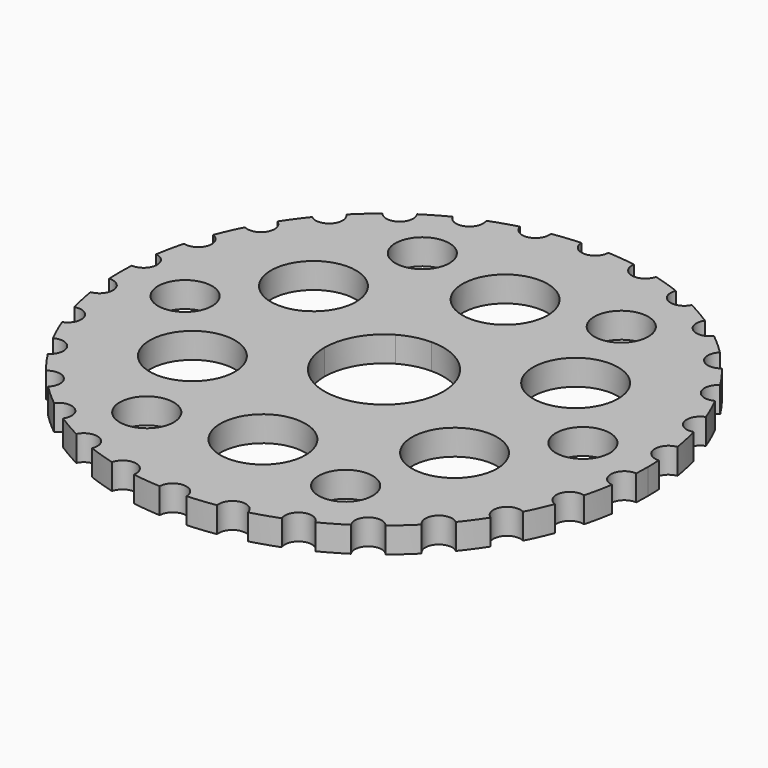
from build123d import *

# Parameters (mm, degrees)
F0_R     = 3.175
F0_R_2   = 5
F1_DEPTH = 3


with BuildPart() as f1:
    # F0 (on Top) → F1 (new body)
    with BuildSketch(Plane.XY):
        with BuildLine():
            ThreePointArc((30.955638, -1.657848), (30.988908, -0.829221), (31, 0))
            ThreePointArc((31, 0), (30.988908, 0.829221), (30.955638, 1.657848))
            ThreePointArc((30.955638, 1.657848), (29.251375, 3.074443), (30.623869, 4.814419))
            ThreePointArc((30.623869, 4.814419), (30.322576, 6.445262), (29.934497, 8.057659))
            ThreePointArc((29.934497, 8.057659), (27.97295, 9.088962), (28.95369, 11.076273))
            ThreePointArc((28.95369, 11.076273), (28.319909, 12.608836), (27.605075, 14.105312))
            ThreePointArc((27.605075, 14.105312), (25.471972, 14.70625), (26.018096, 16.854041))
            ThreePointArc((26.018096, 16.854041), (25.079527, 18.221343), (24.069179, 19.536495))
            ThreePointArc((24.069179, 19.536495), (21.857747, 19.680804), (21.945386, 21.895206))
            ThreePointArc((21.945386, 21.895206), (20.743049, 23.03749), (19.481344, 24.113839))
            ThreePointArc((19.481344, 24.113839), (17.288234, 23.795212), (16.913557, 25.979445))
            ThreePointArc((16.913557, 25.979445), (15.5, 26.846788), (14.042081, 27.637293))
            ThreePointArc((14.042081, 27.637293), (11.963142, 26.869656), (11.142525, 28.928258))
            ThreePointArc((11.142525, 28.928258), (9.579527, 29.482752), (7.989112, 29.952865))
            ThreePointArc((7.989112, 29.952865), (6.115203, 28.769766), (4.884511, 30.612768))
            ThreePointArc((4.884511, 30.612768), (3.240382, 30.830179), (1.58698, 30.959352))
            ThreePointArc((1.58698, 30.959352), (0, 29.4125), (-1.58698, 30.959352))
            ThreePointArc((-1.58698, 30.959352), (-3.240382, 30.830179), (-4.884511, 30.612768))
            ThreePointArc((-4.884511, 30.612768), (-4.864464, 30.468287), (-4.857762, 30.322576))
            ThreePointArc((-4.857762, 30.322576), (-6.259123, 28.746026), (-7.989112, 29.952865))
            ThreePointArc((-7.989112, 29.952865), (-9.579527, 29.482752), (-11.142525, 28.928258))
            ThreePointArc((-11.142525, 28.928258), (-11.051928, 28.630061), (-11.021336, 28.319909))
            ThreePointArc((-11.021336, 28.319909), (-12.258922, 26.771453), (-14.042081, 27.637293))
            ThreePointArc((-14.042081, 27.637293), (-15.5, 26.846788), (-16.913557, 25.979445))
            ThreePointArc((-16.913557, 25.979445), (-16.705383, 25.55072), (-16.633843, 25.079527))
            ThreePointArc((-16.633843, 25.079527), (-17.711488, 23.576129), (-19.481344, 24.113839))
            ThreePointArc((-19.481344, 24.113839), (-20.743049, 23.03749), (-21.945386, 21.895206))
            ThreePointArc((-21.945386, 21.895206), (-21.579088, 21.370122), (-21.44999, 20.743049))
            ThreePointArc((-21.44999, 20.743049), (-22.37328, 19.301181), (-24.069179, 19.536495))
            ThreePointArc((-24.069179, 19.536495), (-25.079527, 18.221343), (-26.018096, 16.854041))
            ThreePointArc((-26.018096, 16.854041), (-25.461922, 16.276083), (-25.259288, 15.5))
            ThreePointArc((-25.259288, 15.5), (-26.0355, 14.13546), (-27.605075, 14.105312))
            ThreePointArc((-27.605075, 14.105312), (-28.319909, 12.608836), (-28.95369, 11.076273))
            ThreePointArc((-28.95369, 11.076273), (-28.186596, 10.496116), (-27.895252, 9.579527))
            ThreePointArc((-27.895252, 9.579527), (-28.533276, 8.307265), (-29.934497, 8.057659))
            ThreePointArc((-29.934497, 8.057659), (-30.322576, 6.445262), (-30.623869, 4.814419))
            ThreePointArc((-30.623869, 4.814419), (-29.636933, 4.287435), (-29.242679, 3.240382))
            ThreePointArc((-29.242679, 3.240382), (-29.752916, 2.074337), (-30.955638, 1.657848))
            ThreePointArc((-30.955638, 1.657848), (-30.988908, 0.829221), (-31, 0))
            ThreePointArc((-31, 0), (-30.988908, -0.829221), (-30.955638, -1.657848))
            ThreePointArc((-30.955638, -1.657848), (-29.752916, -2.074337), (-29.242679, -3.240382))
            ThreePointArc((-29.242679, -3.240382), (-29.636933, -4.287435), (-30.623869, -4.814419))
            ThreePointArc((-30.623869, -4.814419), (-30.322576, -6.445262), (-29.934497, -8.057659))
            ThreePointArc((-29.934497, -8.057659), (-28.533276, -8.307265), (-27.895252, -9.579527))
            ThreePointArc((-27.895252, -9.579527), (-28.186596, -10.496116), (-28.95369, -11.076273))
            ThreePointArc((-28.95369, -11.076273), (-28.319909, -12.608836), (-27.605075, -14.105312))
            ThreePointArc((-27.605075, -14.105312), (-26.0355, -14.13546), (-25.259288, -15.5))
            ThreePointArc((-25.259288, -15.5), (-25.461922, -16.276083), (-26.018096, -16.854041))
            ThreePointArc((-26.018096, -16.854041), (-25.079527, -18.221343), (-24.069179, -19.536495))
            ThreePointArc((-24.069179, -19.536495), (-22.37328, -19.301181), (-21.44999, -20.743049))
            ThreePointArc((-21.44999, -20.743049), (-21.579088, -21.370122), (-21.945386, -21.895206))
            ThreePointArc((-21.945386, -21.895206), (-20.743049, -23.03749), (-19.481344, -24.113839))
            ThreePointArc((-19.481344, -24.113839), (-17.711488, -23.576129), (-16.633843, -25.079527))
            ThreePointArc((-16.633843, -25.079527), (-16.705383, -25.55072), (-16.913557, -25.979445))
            ThreePointArc((-16.913557, -25.979445), (-15.5, -26.846788), (-14.042081, -27.637293))
            ThreePointArc((-14.042081, -27.637293), (-12.258922, -26.771453), (-11.021336, -28.319909))
            ThreePointArc((-11.021336, -28.319909), (-11.051928, -28.630061), (-11.142525, -28.928258))
            ThreePointArc((-11.142525, -28.928258), (-9.579527, -29.482752), (-7.989112, -29.952865))
            ThreePointArc((-7.989112, -29.952865), (-6.259123, -28.746026), (-4.857762, -30.322576))
            ThreePointArc((-4.857762, -30.322576), (-4.864464, -30.468287), (-4.884511, -30.612768))
            ThreePointArc((-4.884511, -30.612768), (-3.240382, -30.830179), (-1.58698, -30.959352))
            ThreePointArc((-1.58698, -30.959352), (0, -29.4125), (1.58698, -30.959352))
            ThreePointArc((1.58698, -30.959352), (3.240382, -30.830179), (4.884511, -30.612768))
            ThreePointArc((4.884511, -30.612768), (6.115203, -28.769766), (7.989112, -29.952865))
            ThreePointArc((7.989112, -29.952865), (9.579527, -29.482752), (11.142525, -28.928258))
            ThreePointArc((11.142525, -28.928258), (11.963142, -26.869656), (14.042081, -27.637293))
            ThreePointArc((14.042081, -27.637293), (15.5, -26.846788), (16.913557, -25.979445))
            ThreePointArc((16.913557, -25.979445), (17.288234, -23.795212), (19.481344, -24.113839))
            ThreePointArc((19.481344, -24.113839), (20.743049, -23.03749), (21.945386, -21.895206))
            ThreePointArc((21.945386, -21.895206), (21.857747, -19.680804), (24.069179, -19.536495))
            ThreePointArc((24.069179, -19.536495), (25.079527, -18.221343), (26.018096, -16.854041))
            ThreePointArc((26.018096, -16.854041), (25.471972, -14.70625), (27.605075, -14.105312))
            ThreePointArc((27.605075, -14.105312), (28.319909, -12.608836), (28.95369, -11.076273))
            ThreePointArc((28.95369, -11.076273), (27.97295, -9.088962), (29.934497, -8.057659))
            ThreePointArc((29.934497, -8.057659), (30.322576, -6.445262), (30.623869, -4.814419))
            ThreePointArc((30.623869, -4.814419), (29.251375, -3.074443), (30.955638, -1.657848))
        make_face()
        with Locations((-11.684, -20.237282)):
            Circle(F0_R, mode=Mode.SUBTRACT)
        with Locations((-15.397932, -8.89)):
            Circle(F0_R_2, mode=Mode.SUBTRACT)
        with Locations((0, -17.78)):
            Circle(F0_R_2, mode=Mode.SUBTRACT)
        with Locations((11.684, -20.237282)):
            Circle(F0_R, mode=Mode.SUBTRACT)
        with Locations((15.397932, -8.89)):
            Circle(F0_R_2, mode=Mode.SUBTRACT)
        with BuildLine():
            ThreePointArc((-20.193, 0), (-23.368, -3.175), (-26.543, 0))
            ThreePointArc((-26.543, 0), (-23.368, 3.175), (-20.193, 0))
        make_face(mode=Mode.SUBTRACT)
        with Locations((-15.397932, 8.89)):
            Circle(F0_R_2, mode=Mode.SUBTRACT)
        with BuildLine():
            ThreePointArc((-8.509, 20.237282), (-8.934369, 18.649782), (-10.0965, 17.487651))
            ThreePointArc((-10.0965, 17.487651), (-14.433631, 21.824782), (-8.509, 20.237282))
        make_face(mode=Mode.SUBTRACT)
        with BuildLine():
            ThreePointArc((6.985, 0), (0, -6.985), (-6.985, 0))
            ThreePointArc((-6.985, 0), (-6.049187, 3.4925), (-3.4925, 6.049187))
            ThreePointArc((-3.4925, 6.049187), (-1.807851, 6.746992), (0, 6.985))
            ThreePointArc((0, 6.985), (4.939141, 4.939141), (6.985, 0))
        make_face(mode=Mode.SUBTRACT)
        with Locations((15.397932, 8.89)):
            Circle(F0_R_2, mode=Mode.SUBTRACT)
        with Locations((23.368, 0)):
            Circle(F0_R, mode=Mode.SUBTRACT)
        with BuildLine():
            ThreePointArc((5, 17.78), (3.535534, 14.244466), (0, 12.78))
            ThreePointArc((0, 12.78), (-3.535534, 21.315534), (5, 17.78))
        make_face(mode=Mode.SUBTRACT)
        with Locations((11.684, 20.237282)):
            Circle(F0_R, mode=Mode.SUBTRACT)
    extrude(amount=F1_DEPTH)


solid = f1.part
